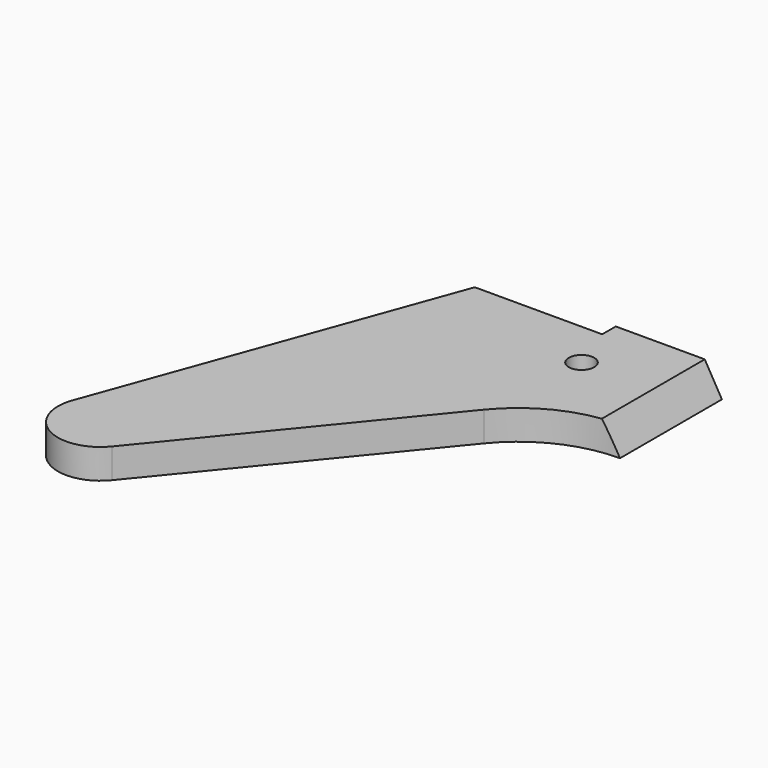
from build123d import *

# Parameters (mm, degrees)
PAD002_DEPTH    = 7
SKETCH025_R     = 3
POCKET018_DEPTH = 15
POCKET019_DEPTH = 98.908358
SKETCH028_R     = 3
POCKET021_DEPTH = 7.001


with BuildPart() as part:
    # Sketch023 → Pad002 (new body)
    with BuildSketch(Plane.XY):
        with BuildLine():
            Line((75.261973, 88.907358), (50.261973, 88.907358))
            Line((50.261973, 84.907358), (50.261973, 88.907358))
            Line((50.261973, 84.907358), (20.261973, 84.907358))
            Line((-9.396926, 3.420201), (20.261973, 84.907358))
            ThreePointArc((-9.396926, 3.420201), (-4.942745, -8.693059), (7.744606, -6.326221))
            Line((7.744606, -6.326221), (52.028155, 47.886022))
            ThreePointArc((75.261973, 58.907358), (62.404289, 56.012339), (52.028155, 47.886022))
            Line((75.261973, 88.907358), (75.261973, 58.907358))
        make_face()
    extrude(amount=PAD002_DEPTH)

    # Sketch025 (on Face4 of Pad002) → Pocket018 (cut)
    with BuildSketch(Plane(origin=(0, 84.907358, 0), x_dir=(-1, 0, 0), z_dir=(0, 1, 0))):
        with Locations((-35.261973, 3.5)):
            Circle(SKETCH025_R)
    extrude(amount=-POCKET018_DEPTH, mode=Mode.SUBTRACT)

    # Sketch026 (on Face2 of Pocket018) → Pocket019 (cut, through all)
    with BuildSketch(Plane(origin=(0, 88.907358, 0), x_dir=(-1, 0, 0), z_dir=(0, 1, 0))):
        Polygon((-75.261973, 7), (-75.261973, 0), (-71.220521, 7), align=None)
    extrude(amount=-POCKET019_DEPTH, mode=Mode.SUBTRACT)

    # Sketch028 → Pocket021 (cut, through all)
    with BuildSketch(Plane.XY.offset(7)):
        with Locations((54.303425, 73.770624)):
            Circle(SKETCH028_R)
    extrude(amount=-POCKET021_DEPTH, mode=Mode.SUBTRACT)


with BuildPart() as part_1:
    # Body002 placement: moved
    add(part.part.moved(Location((-250, 0, 0))))


with BuildPart() as part_2:
    # Clone placement: moved
    add(part_1.part.moved(Location((262, 76, 0))))


solid = part_2.part
